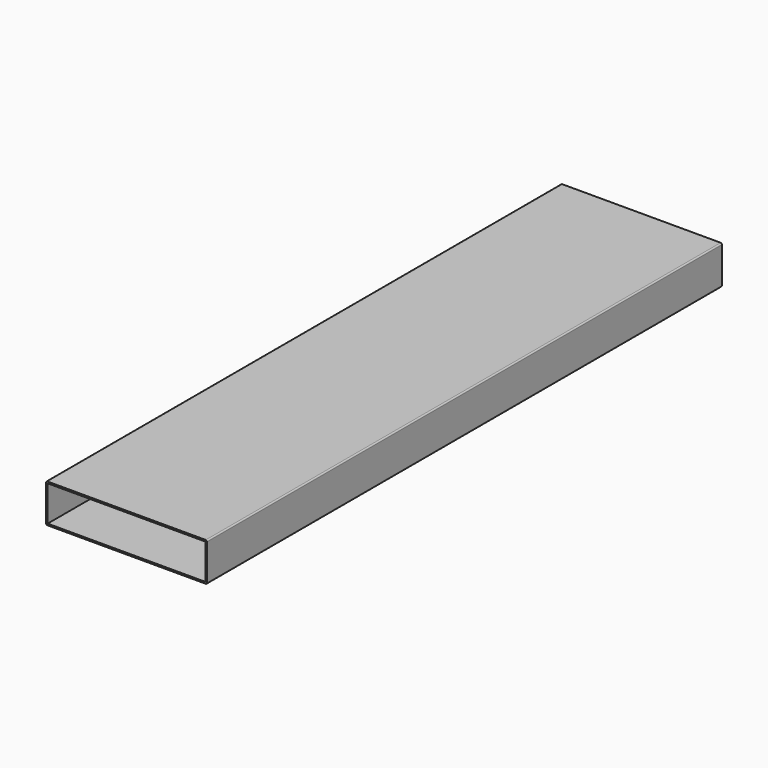
from build123d import *

# Parameters (mm, degrees)
F0_W     = 250
F0_H     = 60
F1_DEPTH = 1000
F2_T     = -2.5
F3_R     = 2


with BuildPart() as f1:
    # F0 (on Front) → F1 (new body)
    with BuildSketch(Plane.XZ):
        with Locations((125, 30)):
            Rectangle(F0_W, F0_H)
    extrude(amount=F1_DEPTH)

    # F2
    f2_openings = [f1.faces().sort_by_distance(p)[0] for p in [
        (125, -1000, 30),
        (125, 0, 30),
    ]]
    offset(amount=F2_T, openings=f2_openings)

    # F3
    f3_edges = [f1.edges().sort_by_distance(p)[0] for p in [
        (0, -500, 60),
        (250, -500, 60),
        (250, -500, 0),
        (0, -500, 0),
    ]]
    fillet(f3_edges, radius=F3_R)


solid = f1.part
